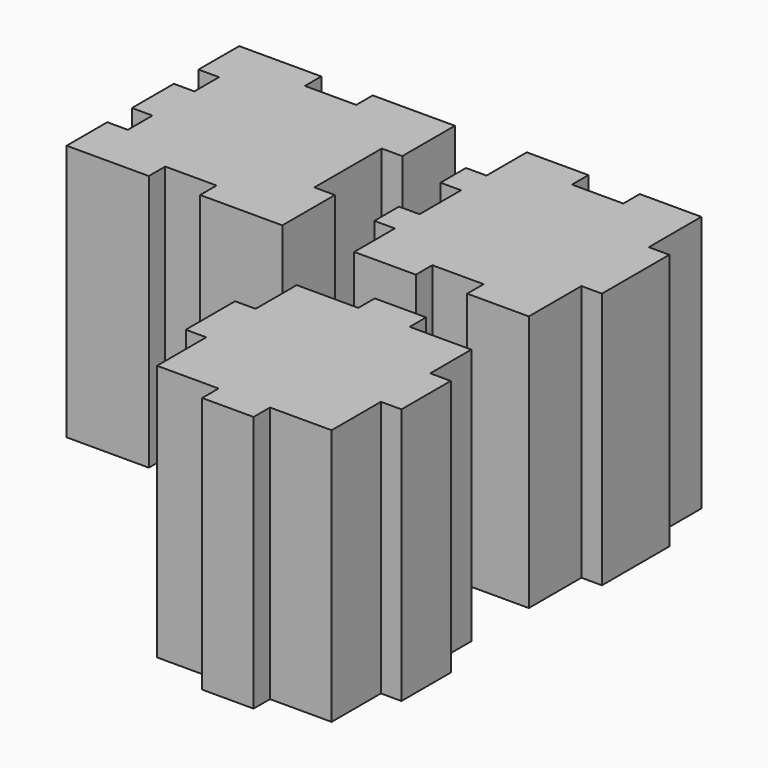
from build123d import *

# Parameters (mm, degrees)
F1_DEPTH = 25


with BuildPart() as f1:
    # F0 (on Top) → F1 (new body)
    with BuildSketch(Plane.XY):
        Polygon((-18.036232, 18.486957), (-26.036232, 18.486957), (-26.036232, 13.536957), (-24.036232, 13.536957), (-24.036232, 10.536957), (-26.036232, 10.536957), (-26.036232, 5.436957), (-24.036232, 5.436957), (-24.036232, 2.436957), (-26.036232, 2.436957), (-26.036232, -2.513043), (-18.036232, -2.513043), (-18.036232, -0.513043), (-13.036232, -0.513043), (-13.036232, -2.513043), (-5.036232, -2.513043), (-5.036232, 3.886957), (-7.036232, 3.886957), (-7.036232, 12.086957), (-5.036232, 12.086957), (-5.036232, 18.486957), (-13.036232, 18.486957), (-13.036232, 16.486957), (-18.036232, 16.486957), align=None)
        Polygon((7.963768, 18.486957), (1.963768, 18.486957), (1.963768, 13.586957), (-0.036232, 13.586957), (-0.036232, 10.486957), (1.963768, 10.486957), (1.963768, 5.436957), (-0.036232, 5.436957), (-0.036232, 2.436957), (1.963768, 2.436957), (1.963768, -2.513043), (7.963768, -2.513043), (7.963768, -0.513043), (12.963768, -0.513043), (12.963768, -2.513043), (18.963768, -2.513043), (18.963768, 3.886957), (20.963768, 3.886957), (20.963768, 12.086957), (18.963768, 12.086957), (18.963768, 18.486957), (12.963768, 18.486957), (12.963768, 16.486957), (7.963768, 16.486957), align=None)
        Polygon((7.963768, -9.513043), (1.963768, -9.513043), (1.963768, -14.513043), (-0.036232, -14.513043), (-0.036232, -20.513043), (1.963768, -20.513043), (1.963768, -26.513043), (7.963768, -26.513043), (7.963768, -28.513043), (12.963768, -28.513043), (12.963768, -26.513043), (18.963768, -26.513043), (18.963768, -20.513043), (20.963768, -20.513043), (20.963768, -14.513043), (18.963768, -14.513043), (18.963768, -9.513043), (12.963768, -9.513043), (12.963768, -7.513043), (7.963768, -7.513043), align=None)
    extrude(amount=F1_DEPTH)


solid = f1.part
